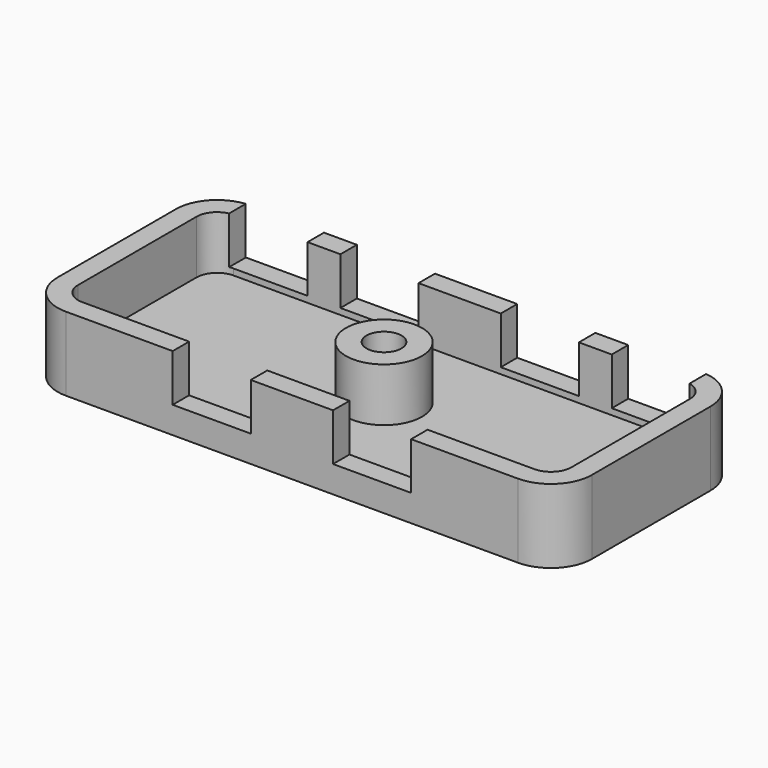
from build123d import *

# Parameters (mm, degrees)
F0_R     = 2.125
F1_DEPTH = 9
F2_T     = -2.5
F3_W     = 9.5
F3_H     = 14
F4_DEPTH = 5.75


with BuildPart() as f1:
    # F0 (on Top) → F1 (new body)
    with BuildSketch(Plane.XY):
        with BuildLine():
            ThreePointArc((32.5, 9), (31.035534, 12.535534), (27.5, 14))
            Line((27.5, 14), (-27.5, 14))
            ThreePointArc((-27.5, 14), (-31.035534, 12.535534), (-32.5, 9))
            Line((-32.5, 9), (-32.5, -9))
            ThreePointArc((-32.5, -9), (-31.035534, -12.535534), (-27.5, -14))
            Line((-27.5, -14), (27.5, -14))
            ThreePointArc((27.5, -14), (31.035534, -12.535534), (32.5, -9))
            Line((32.5, -9), (32.5, 9))
        make_face()
        Circle(F0_R, mode=Mode.SUBTRACT)
    extrude(amount=F1_DEPTH)

    # F2
    f2_openings = [f1.faces().sort_by_distance(p)[0] for p in [
        (30.535084, 12.035084, 9),
    ]]
    offset(amount=F2_T, openings=f2_openings)

    # F3 (on face) → F4 (cut)
    with BuildSketch(Plane.XY.offset(9)):
        with Locations((9.75, 7)):
            Rectangle(F3_W, F3_H)
        with Locations((9.75, -7)):
            Rectangle(F3_W, F3_H)
        with Locations((-9.75, -7)):
            Rectangle(F3_W, F3_H)
        with Locations((-9.75, 7)):
            Rectangle(F3_W, F3_H)
        with Locations((23.25, 7)):
            Rectangle(F3_W, F3_H)
        with Locations((-23.25, 7)):
            Rectangle(F3_W, F3_H)
    extrude(amount=-F4_DEPTH, mode=Mode.SUBTRACT)


solid = f1.part
